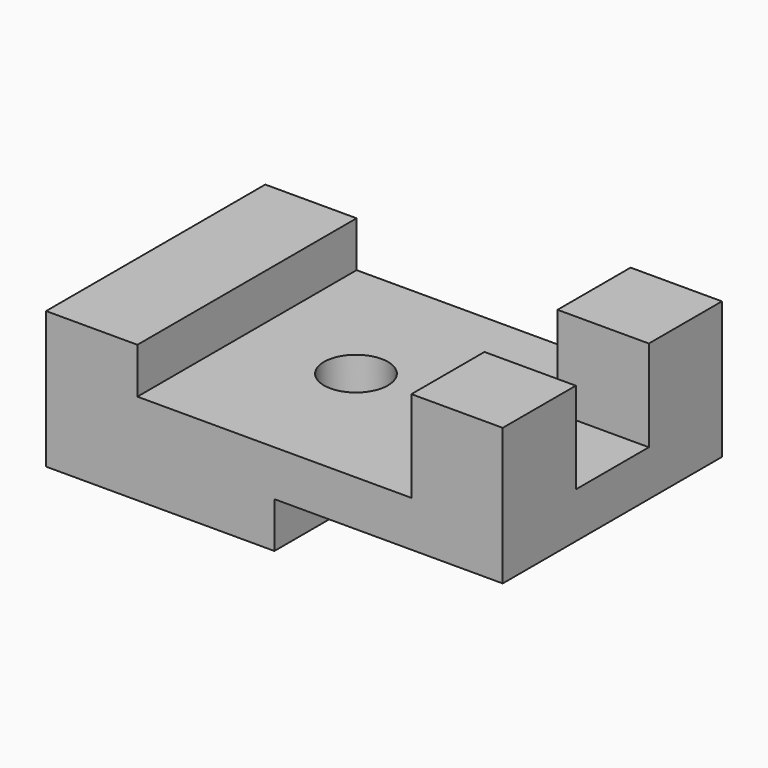
from build123d import *

# Parameters (mm, degrees)
F0_W     = 10
F0_H     = 30
F1_DEPTH = 15
F0_W_2   = 15
F2_DEPTH = 10
F0_H_2   = 10
F3_DEPTH = 20
F4_DEPTH = 5
F5_R     = 3.5
F6_DEPTH = 10


with BuildPart() as f1:
    # F0 (on Top) → F1 (new body)
    with BuildSketch(Plane.XY):
        with Locations((-23.784959, -15)):
            Rectangle(F0_W, F0_H)
    extrude(amount=F1_DEPTH)

    # F0 (on Top) → F2 (join)
    with BuildSketch(Plane.XY):
        with Locations((-11.284959, -15)):
            Rectangle(F0_W_2, F0_H)
        Polygon((11.215041, 0), (-3.784959, 0), (-3.784959, -30), (11.215041, -30), (11.215041, -20), (21.215041, -20), (21.215041, -10), (11.215041, -10), align=None)
    extrude(amount=F2_DEPTH)

    # F0 (on Top) → F3 (join)
    with BuildSketch(Plane.XY):
        with Locations((16.215041, -25)):
            Rectangle(F0_W, F0_H_2)
        with Locations((16.215041, -5)):
            Rectangle(F0_W, F0_H_2)
    extrude(amount=F3_DEPTH)

    # F0 (on Top) → F4 (cut)
    with BuildSketch(Plane.XY):
        Polygon((11.215041, 0), (-3.784959, 0), (-3.784959, -30), (11.215041, -30), (11.215041, -20), (21.215041, -20), (21.215041, -10), (11.215041, -10), align=None)
        with Locations((16.215041, -25)):
            Rectangle(F0_W, F0_H_2)
        with Locations((16.215041, -5)):
            Rectangle(F0_W, F0_H_2)
    extrude(amount=F4_DEPTH, mode=Mode.SUBTRACT)

    # F5 (on face) → F6 (cut)
    with BuildSketch(Plane.XY.offset(10)):
        with BuildLine():
            ThreePointArc((3.355565, -15), (6.855565, -18.5), (10.355565, -15))
            Line((10.355565, -15), (3.355565, -15))
        make_face()
        with BuildLine():
            Line((3.355565, -15), (10.355565, -15))
            ThreePointArc((10.355565, -15), (6.855565, -11.5), (3.355565, -15))
        make_face()
        with Locations((-6.855565, -15)):
            Circle(F5_R)
    extrude(amount=-F6_DEPTH, mode=Mode.SUBTRACT)


solid = f1.part
